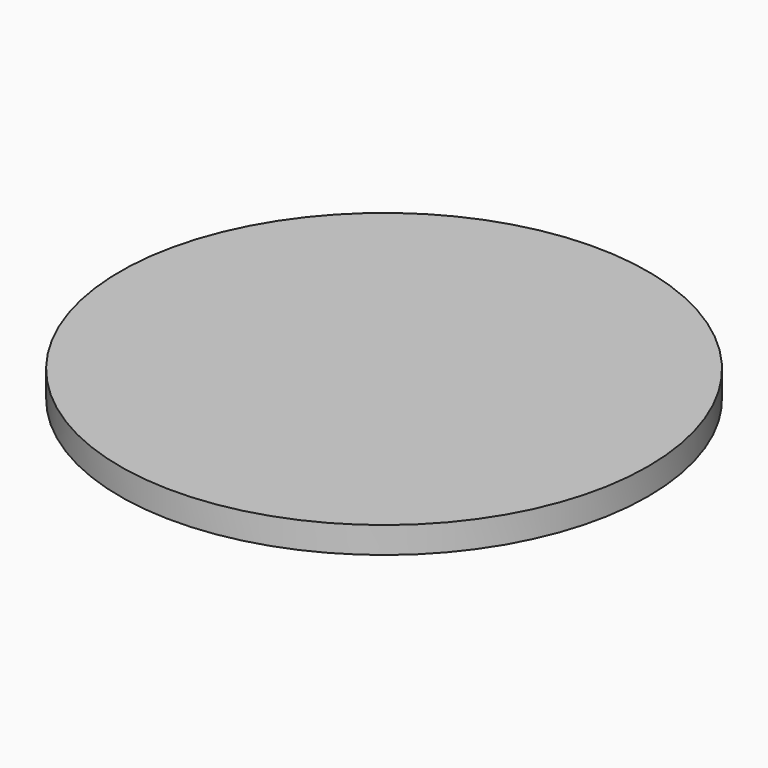
from build123d import *

# Parameters (mm, degrees)
F1_R     = 25
F2_DEPTH = 2.5


with BuildPart() as f2:
    # F1 (on face) → F2 (new body)
    with BuildSketch(Plane.XY):
        Circle(F1_R)
        Circle(F1_R)
    extrude(amount=F2_DEPTH)


solid = f2.part
